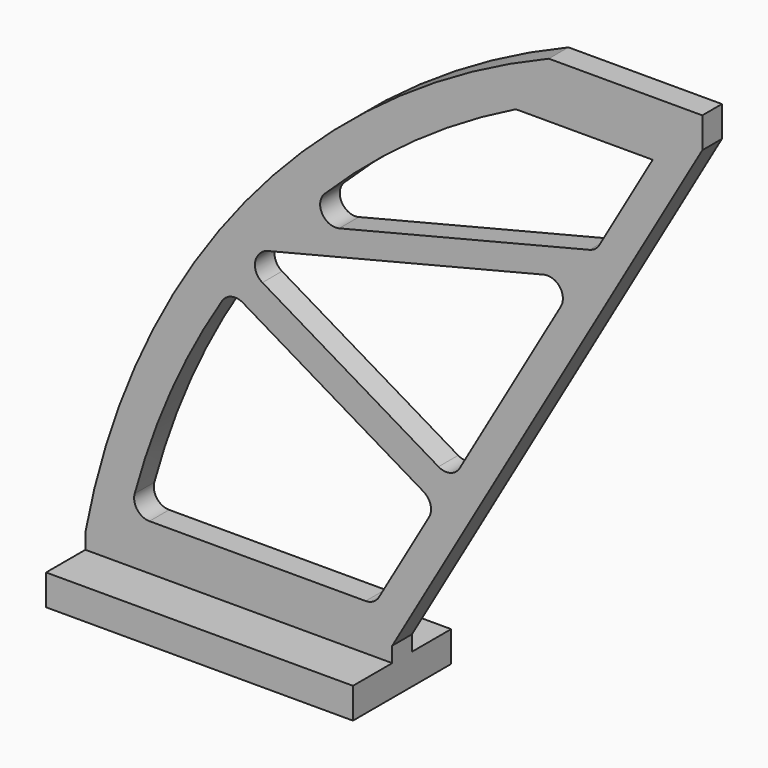
from build123d import *

# Parameters (mm, degrees)
F1_DEPTH = 4.064
F0_W     = 101.6
F0_H     = 10.16
F2_DEPTH = 20.32


with BuildPart() as f1:
    # F0 (on Front) → F1 (new body, symmetric)
    with BuildSketch(Plane.XZ):
        with BuildLine():
            ThreePointArc((153.4528778619, 203.2), (52.8306922848, 128.7287842706), (0, 15.24))
            Line((0, 15.24), (0, 10.16))
            Line((0, 10.16), (101.6, 10.16))
            Line((101.6, 10.16), (101.6, 15.24))
            Line((101.6, 15.24), (204.2528778619, 193.04))
            Line((204.2528778619, 193.04), (204.2528778619, 203.2))
            Line((204.2528778619, 203.2), (153.4528778619, 203.2))
        make_face()
        with BuildLine():
            Line((92.8011818976, 25.4), (21.2264241823, 25.4))
            ThreePointArc((21.2264241823, 25.4), (17.1886545886, 27.397336102), (16.3259964047, 31.8187335794))
            ThreePointArc((16.3259964047, 31.8187335794), (28.3591193477, 65.7147748231), (45.2871385288, 97.4508714067))
            ThreePointArc((45.2871385288, 97.4508714067), (48.3974495661, 99.6739601652), (52.177042611, 99.098777766))
            Line((52.177042611, 99.098777766), (111.9565313489, 63.5238037174))
            ThreePointArc((111.9565313489, 63.5238037174), (114.2741096305, 60.4406934976), (113.7580367399, 56.6183373538))
            Line((113.7580367399, 56.6183373538), (97.2005909488, 27.94))
            ThreePointArc((97.2005909488, 27.94), (95.3411818976, 26.0805909488), (92.8011818976, 25.4))
        make_face(mode=Mode.SUBTRACT)
        with BuildLine():
            Line((60.353951044, 116.8828291829), (151.7897789297, 139.7113057545))
            ThreePointArc((151.7897789297, 139.7113057545), (157.076894511, 137.8404624823), (157.4197225426, 132.2425955082))
            Line((157.4197225426, 132.2425955082), (123.9189236165, 74.217509674))
            ThreePointArc((123.9189236165, 74.217509674), (120.8018707091, 71.8420277322), (116.9216109051, 72.3920433103))
            Line((116.9216109051, 72.3920433103), (58.6091095788, 107.0940082349))
            ThreePointArc((58.6091095788, 107.0940082349), (56.2200964977, 110.4914552728), (57.1645380163, 114.5359651436))
            ThreePointArc((57.1645380163, 114.5359651436), (57.3571583281, 114.7887213361), (57.5501106483, 115.0412241669))
            ThreePointArc((57.5501106483, 115.0412241669), (58.795633634, 116.2001411551), (60.353951044, 116.8828291829))
        make_face(mode=Mode.SUBTRACT)
        with BuildLine():
            Line((142.5279448136, 184.912), (187.828417404, 184.912))
            Line((187.828417404, 184.912), (170.1352936925, 154.2666107871))
            ThreePointArc((170.1352936925, 154.2666107871), (168.7937516154, 152.7500297675), (166.966419203, 151.8779005407))
            Line((166.966419203, 151.8779005407), (84.0438107409, 131.1748909185))
            ThreePointArc((84.0438107409, 131.1748909185), (78.387658406, 133.6095467697), (79.2344546676, 139.7089356276))
            ThreePointArc((79.2344546676, 139.7089356276), (109.0518420167, 164.8719409502), (142.5279448136, 184.912))
        make_face(mode=Mode.SUBTRACT)
    extrude(amount=F1_DEPTH, both=True)

    # F0 (on Front) → F2 (join, symmetric)
    with BuildSketch(Plane.XZ):
        with Locations((50.8, 5.08)):
            Rectangle(F0_W, F0_H)
    extrude(amount=F2_DEPTH, both=True)


solid = f1.part
